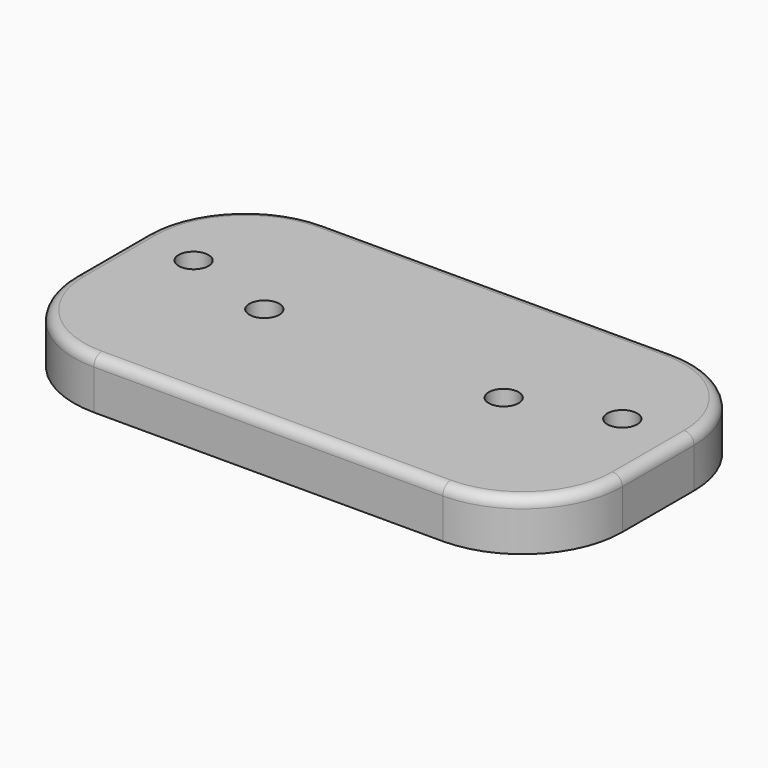
from build123d import *

# Parameters (mm, degrees)
F1_DEPTH = 5
F2_R     = 1
F3_D     = 3
F4_D     = 3


with BuildPart() as f1:
    # F0 (on Top) → F1 (new body)
    with BuildSketch(Plane.XY):
        with BuildLine():
            Line((17.5, 14.5), (-17.5, 14.5))
            ThreePointArc((-17.5, 14.5), (-24.5710678119, 11.5710678119), (-27.5, 4.5))
            Line((-27.5, 4.5), (-27.5, -4.5))
            ThreePointArc((-27.5, -4.5), (-24.5710678119, -11.5710678119), (-17.5, -14.5))
            Line((-17.5, -14.5), (17.5, -14.5))
            ThreePointArc((17.5, -14.5), (24.5710678119, -11.5710678119), (27.5, -4.5))
            Line((27.5, -4.5), (27.5, 4.5))
            ThreePointArc((27.5, 4.5), (24.5710678119, 11.5710678119), (17.5, 14.5))
        make_face()
    extrude(amount=F1_DEPTH)

    # F2
    f2_edges = [f1.edges().sort_by_distance(p)[0] for p in [
        (0, 14.5, 5),
        (-24.571068, 11.571068, 5),
        (-27.5, 0, 5),
        (-24.571068, -11.571068, 5),
        (0, -14.5, 5),
        (24.571068, -11.571068, 5),
        (27.5, 0, 5),
        (24.571068, 11.571068, 5),
    ]]
    fillet(f2_edges, radius=F2_R)

    # F3 (through all)
    with Locations(Plane(origin=(0, 0, 0), x_dir=(1, 0, 0), z_dir=(0, 0, -1))):
        with Locations((-21.5, -3), (21.5, -3)):
            Hole(F3_D / 2)

    # F4 (through all)
    with Locations(Plane(origin=(0, 0, 0), x_dir=(1, 0, 0), z_dir=(0, 0, -1))):
        with Locations((-12, 0), (12, 0)):
            Hole(F4_D / 2)


solid = f1.part
